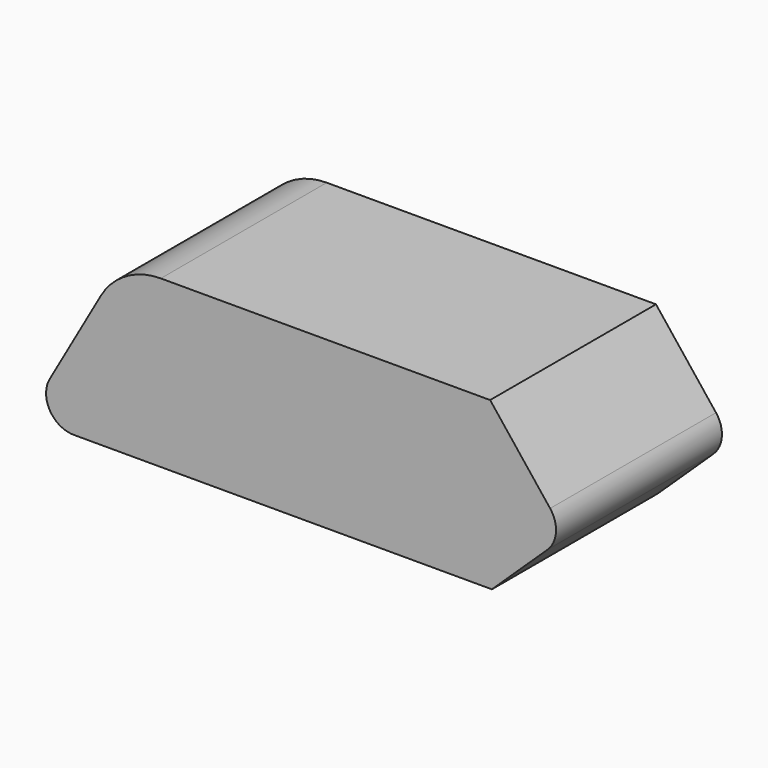
from build123d import *

# Parameters (mm, degrees)
F1_DEPTH = 15


with BuildPart() as f1:
    # F0 (on Front) → F1 (new body)
    with BuildSketch(Plane.XZ):
        with BuildLine():
            ThreePointArc((-31.990636, 2.988535), (-31.980754, 0.994284), (-30.252016, 0))
            Line((-30.252016, 0), (0, 0))
            Line((0, 0), (4.023837, 3.83522))
            ThreePointArc((4.023837, 3.83522), (4.639042, 5.142749), (4.212761, 6.52347))
            Line((4.212761, 6.52347), (-0.127799, 12.012706))
            Line((-0.127799, 12.012706), (-13.884482, 12.012706))
            Line((-13.884482, 12.012706), (-23.950903, 12.012706))
            ThreePointArc((-23.950903, 12.012706), (-26.465193, 11.334552), (-28.297452, 9.484045))
            Line((-28.297452, 9.484045), (-31.990636, 2.988535))
        make_face()
    extrude(amount=F1_DEPTH)


solid = f1.part
